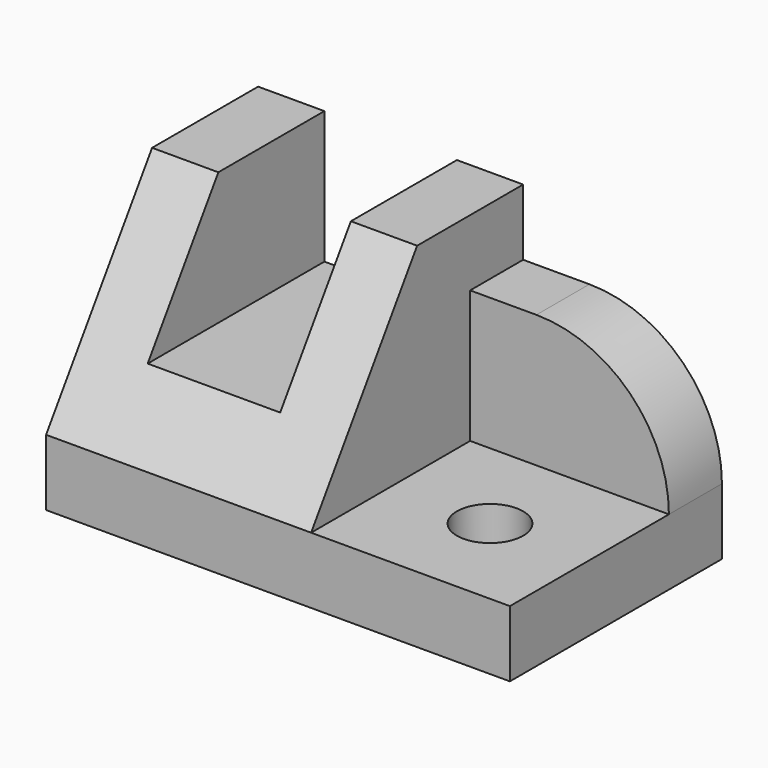
from build123d import *

# Parameters (mm, degrees)
SKETCH_W        = 70
SKETCH_H        = 10
PAD_DEPTH       = 20
PAD001_DEPTH    = 40
POCKET_DEPTH    = 40
SKETCH003_R     = 5
POCKET001_DEPTH = 10.001
SKETCH004_W     = 30
SKETCH004_H     = 20
PAD002_DEPTH    = 10
FILLET_R        = 20


with BuildPart() as part:
    # Sketch → Pad (new body, symmetric)
    with BuildSketch(Plane.XZ):
        with Locations((0, 5)):
            Rectangle(SKETCH_W, SKETCH_H)
    extrude(amount=PAD_DEPTH, both=True)

    # Sketch001 (on Face6 of Pad) → Pad001 (join)
    with BuildSketch(Plane.XZ.offset(20)):
        Polygon((-35, 40), (-35, 10), (5, 10), (5, 40), (-5, 40), (-5, 20), (-25, 20), (-25, 40), align=None)
    extrude(amount=-PAD001_DEPTH)

    # Sketch002 (on Face4 of Pad001) → Pocket (cut)
    with BuildSketch(Plane(origin=(5, 0, 0), x_dir=(0, 0, 1), z_dir=(1, 0, 0))):
        Polygon((40, 0), (40, 20), (10, 20), align=None)
    extrude(amount=-POCKET_DEPTH, mode=Mode.SUBTRACT)

    # Sketch003 (on Face8 of Pocket) → Pocket001 (cut, through all)
    with BuildSketch(Plane(origin=(0, 0, 10), x_dir=(-1, 0, 0), z_dir=(0, 0, 1))):
        with Locations((-20, 5)):
            Circle(SKETCH003_R)
    extrude(amount=-POCKET001_DEPTH, mode=Mode.SUBTRACT)

    # Sketch004 (on Face3 of Pocket001) → Pad002 (join)
    with BuildSketch(Plane(origin=(0, 20, 0), x_dir=(1, 0, 0), z_dir=(0, 1, 0))):
        with Locations((20, -20)):
            Rectangle(SKETCH004_W, SKETCH004_H)
    extrude(amount=-PAD002_DEPTH)

    # Fillet
    fillet_edges = [part.edges().sort_by_distance(p)[0] for p in [
        (35, 15, 30),
    ]]
    fillet(fillet_edges, radius=FILLET_R)


solid = part.part
